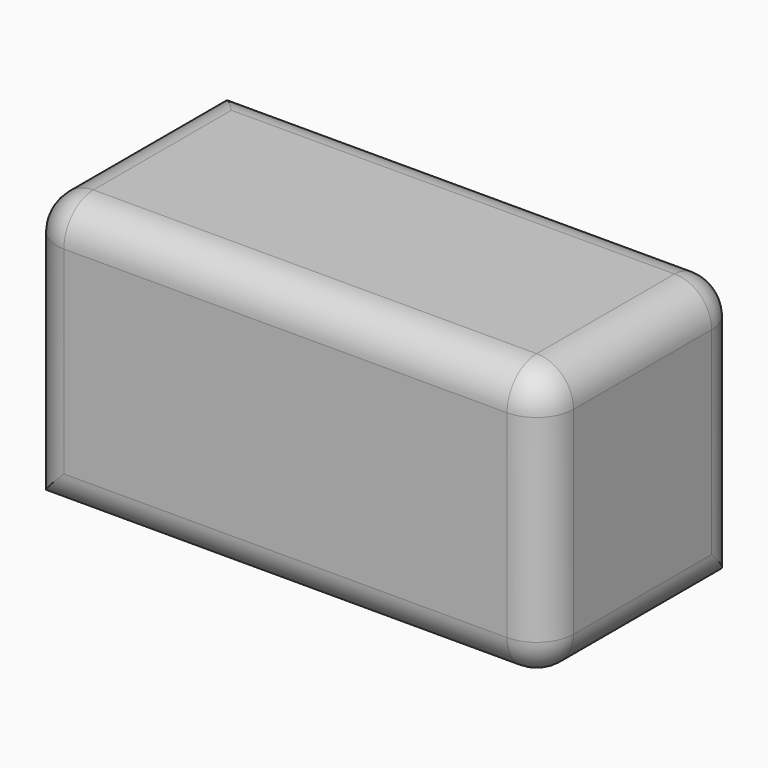
from build123d import *

# Parameters (mm, degrees)
F0_W     = 63.971668
F0_H     = 33.633615
F1_DEPTH = 30.48
F2_R     = 4.572


with BuildPart() as f1:
    # F0 (on Front) → F1 (new body)
    with BuildSketch(Plane.XZ):
        with Locations((-112.28019, 29.745555)):
            Rectangle(F0_W, F0_H)
    extrude(amount=F1_DEPTH)

    # F2
    f2_edges = [f1.edges().sort_by_distance(p)[0] for p in [
        (-80.294356, -15.24, 46.562362),
        (-144.266024, -15.24, 46.562362),
        (-112.28019, 0, 46.562362),
        (-112.28019, -30.48, 46.562362),
        (-144.266024, -30.48, 29.745555),
        (-112.28019, -30.48, 12.928747),
        (-80.294356, -30.48, 29.745555),
        (-80.294356, -15.24, 12.928747),
        (-80.294356, 0, 29.745555),
    ]]
    fillet(f2_edges, radius=F2_R)


solid = f1.part
